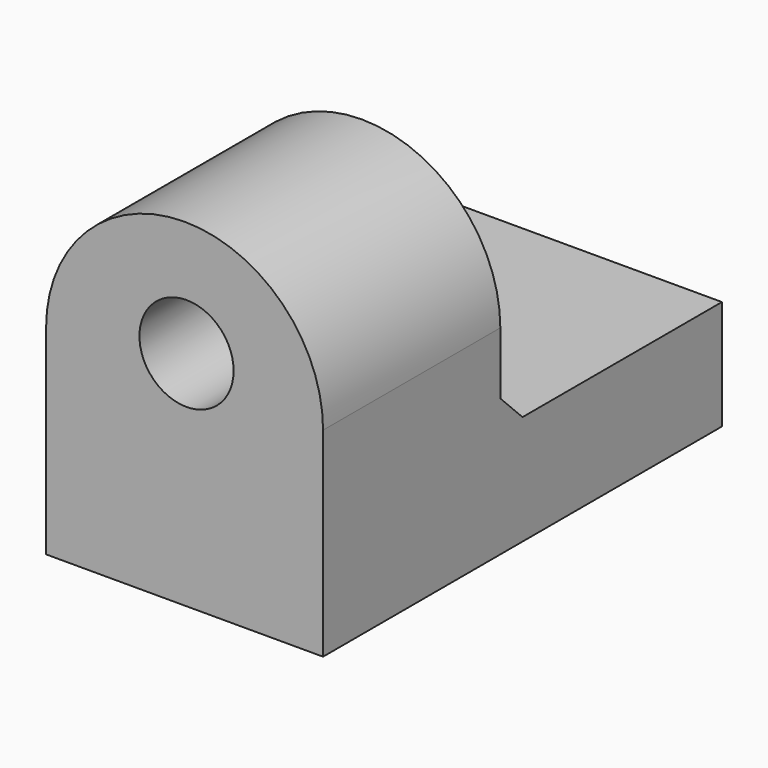
from build123d import *

# Parameters (mm, degrees)
PAD020_DEPTH            = 18
SKETCH034_W             = 12.810354
SKETCH034_H             = 8.636197
POCKET003_DEPTH         = 10
HOLE007_D               = 3.4
HOLE007_DEPTH           = 25
HOLE007_CBORE_D         = 6.1
HOLE007_CBORE_DEPTH     = 3.4
SKETCH037_R             = 1.7
HOLE008_DEPTH           = 25
CHAMFER001_SIZE         = 1
BODY020_PLACEMENT_ANGLE = 180


with BuildPart() as part:
    # Sketch033 → Pad020 (new body)
    with BuildSketch(Plane.XZ):
        with BuildLine():
            ThreePointArc((-5, 0), (0, -5), (5, 0))
            Line((5, 0), (5, 7.200889))
            Line((-5, 7.200889), (5, 7.200889))
            Line((-5, 7.200889), (-5, 0))
        make_face()
    extrude(amount=PAD020_DEPTH)

    # Sketch034 (on Face5 of Pad020) → Pocket003 (cut)
    with BuildSketch(Plane(origin=(0, 0, 0), x_dir=(1, 0, 0), z_dir=(0, 1, 0))):
        with Locations((-0.681749, 1.0732765)):
            Rectangle(SKETCH034_W, SKETCH034_H)
    extrude(amount=-POCKET003_DEPTH, mode=Mode.SUBTRACT)

    # Hole007
    with Locations(Plane(origin=(0, -10, 0), x_dir=(1, 0, 0), z_dir=(0, 1, 0))):
        with Locations((-0.07012, 0.834162)):
            CounterBoreHole(HOLE007_D / 2, HOLE007_CBORE_D / 2, HOLE007_CBORE_DEPTH, depth=HOLE007_DEPTH)

    # Sketch037 (on Face6 of Hole007) → Hole008 (cut)
    with BuildSketch(Plane(origin=(0, 0, 3.244822), x_dir=(1, 0, 0), z_dir=(0, 0, -1))):
        with Locations((0, 6.488995)):
            Circle(SKETCH037_R)
    extrude(amount=-HOLE008_DEPTH, mode=Mode.SUBTRACT)

    # Chamfer001
    chamfer001_edges = [part.edges().sort_by_distance(p)[0] for p in [
        (0, -10, 3.244822),
    ]]
    chamfer(chamfer001_edges, length=CHAMFER001_SIZE)


with BuildPart() as part_1:
    # Body020 placement: moved
    add(part.part.moved(Location((24, 66.5, 19))).rotate(Axis((24, 66.5, 19), (0, 1, 0)), BODY020_PLACEMENT_ANGLE))


solid = part_1.part
